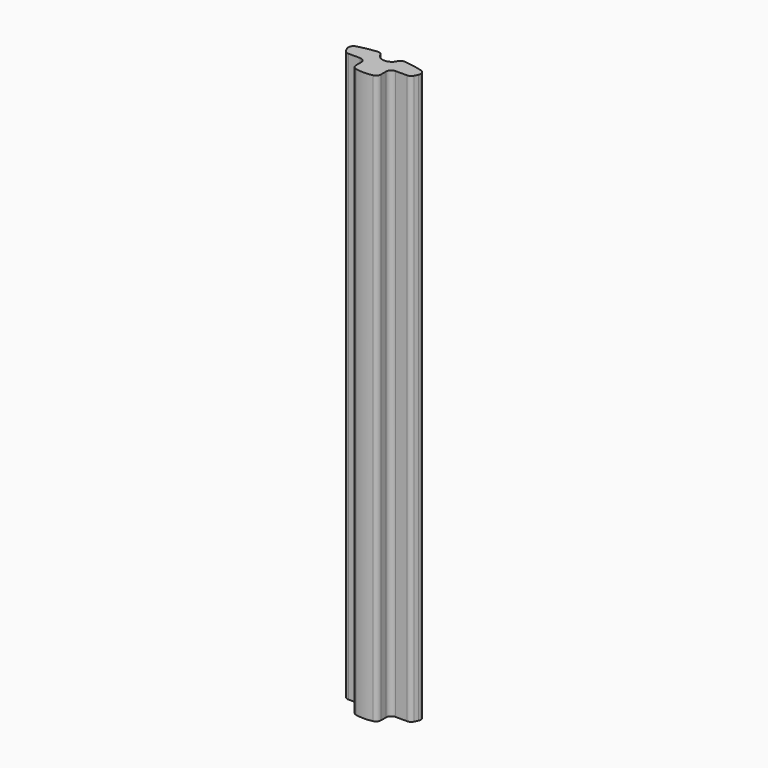
from build123d import *

# Parameters (mm, degrees)
CYLINDER001_R     = 0.9
CYLINDER001_DEPTH = 55
BOX006_W          = 2.42
BOX006_H          = 1.69
BOX006_DEPTH      = 55
BOX005_W          = 2.42
BOX005_H          = 1.69
BOX005_DEPTH      = 55
EXTRUDE010_DEPTH  = 55
FILLET010_R       = 0.5


with BuildPart() as cilindro:
    # Cylinder001 → Cylinder001 (new body)
    with BuildSketch(Plane(origin=(0, 12.21, 0), x_dir=(1, 0, 0), z_dir=(0, 0, 1))):
        Circle(CYLINDER001_R)
    extrude(amount=CYLINDER001_DEPTH)


with BuildPart() as cubo_der:
    # Box006 → Box006 (new body)
    with BuildSketch(Plane(origin=(1.21, 8.809483, 0), x_dir=(1, 0, 0), z_dir=(0, 0, 1))):
        with Locations((1.21, 0.845)):
            Rectangle(BOX006_W, BOX006_H)
    extrude(amount=BOX006_DEPTH)


with BuildPart() as obj1:
    # Box005 → Box005 (new body)
    with BuildSketch(Plane(origin=(-3.63, 8.809483, 0), x_dir=(1, 0, 0), z_dir=(0, 0, 1))):
        with Locations((1.21, 0.845)):
            Rectangle(BOX005_W, BOX005_H)
    extrude(amount=BOX005_DEPTH)


with BuildPart() as obj2:
    # Sketch009 → Extrude010 (new body)
    with BuildSketch(Plane.XY):
        with BuildLine():
            ThreePointArc((-3.632024, 11.657294), (0, 8.809483), (3.632024, 11.657294))
            ThreePointArc((3.632024, 11.657294), (0, 12.21), (-3.632024, 11.657294))
        make_face()
    extrude(amount=EXTRUDE010_DEPTH)

    # Cut004: cut obj1
    add(obj1.part, mode=Mode.SUBTRACT)

    # Cut005: cut Cubo der
    add(cubo_der.part, mode=Mode.SUBTRACT)

    # Cut006: cut Cilindro
    add(cilindro.part, mode=Mode.SUBTRACT)

    # Fillet010
    fillet010_edges = [obj2.edges().sort_by_distance(p)[0] for p in [
        (-3.128114, 10.499483, 27.5),
        (-3.632024, 11.657294, 27.5),
        (-1.21, 10.499483, 27.5),
        (-0.899389, 12.17683, 27.5),
        (3.128114, 10.499483, 27.5),
        (1.21, 10.499483, 27.5),
        (1.21, 9.010627, 27.5),
        (-1.21, 9.010627, 27.5),
        (0.899389, 12.17683, 27.5),
        (3.632024, 11.657294, 27.5),
    ]]
    fillet(fillet010_edges, radius=FILLET010_R)


solid = obj2.part
